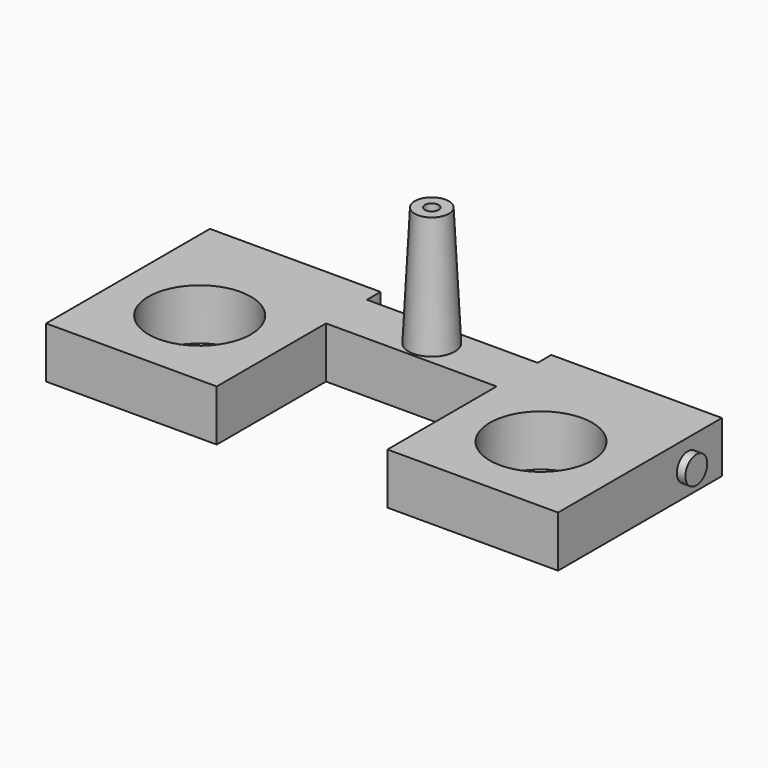
from build123d import *

# Parameters (mm, degrees)
CYLINDER156_R           = 0.4
CYLINDER156_DEPTH       = 8
CYLINDER156_PITCH_ANGLE = 90
CYLINDER140_R           = 1.5
CYLINDER140_DEPTH       = 8
CYLINDER138_R           = 0.4
CYLINDER138_DEPTH       = 8
CYLINDER138_PITCH_ANGLE = 90
CYLINDER139_R           = 0.4
CYLINDER139_DEPTH       = 10
CYLINDER139_PITCH_ANGLE = 90
CYLINDER136_R           = 0.2
CYLINDER136_DEPTH       = 9
CYLINDER141_R           = 1.5
CYLINDER141_DEPTH       = 8
BOX028_W                = 5
BOX028_H                = 6
BOX028_DEPTH            = 1.5
BOX027_W                = 5
BOX027_H                = 6
BOX027_DEPTH            = 1.5
BOX026_W                = 5
BOX026_H                = 1.5
BOX026_DEPTH            = 1.5


with BuildPart() as bowtieinjectorwire003:
    # Cylinder156 → Cylinder156 (new body)
    with BuildSketch(Plane.XY):
        Circle(CYLINDER156_R)
    extrude(amount=CYLINDER156_DEPTH)


with BuildPart() as bowtieinjectorwire003_1:
    # Cylinder156 pitch: moved
    add(bowtieinjectorwire003.part.rotate(Axis((0, 0, 0), (0, 1, 0)), CYLINDER156_PITCH_ANGLE))


with BuildPart() as bowtieinjectorwire003_2:
    # Cylinder156 placement: moved
    add(bowtieinjectorwire003_1.part.moved(Location((105.17, 148, 64.75))))


with BuildPart() as bowtiemount003:
    # Cylinder140 → Cylinder140 (new body)
    with BuildSketch(Plane(origin=(127, 146.25, 63), x_dir=(1, 0, 0), z_dir=(0, 0, 1))):
        Circle(CYLINDER140_R)
    extrude(amount=CYLINDER140_DEPTH)


with BuildPart() as bowtieinjectorwire1:
    # Cylinder138 → Cylinder138 (new body)
    with BuildSketch(Plane.XY):
        Circle(CYLINDER138_R)
    extrude(amount=CYLINDER138_DEPTH)


with BuildPart() as bowtieinjectorwire1_1:
    # Cylinder138 pitch: moved
    add(bowtieinjectorwire1.part.rotate(Axis((0, 0, 0), (0, 1, 0)), CYLINDER138_PITCH_ANGLE))


with BuildPart() as bowtieinjectorwire1_2:
    # Cylinder138 placement: moved
    add(bowtieinjectorwire1_1.part.moved(Location((121.75, 148.5, 69.75))))


with BuildPart() as bowtieinjectorwire002:
    # Cylinder139 → Cylinder139 (new body)
    with BuildSketch(Plane.XY):
        Circle(CYLINDER139_R)
    extrude(amount=CYLINDER139_DEPTH)


with BuildPart() as bowtieinjectorwire002_1:
    # Cylinder139 pitch: moved
    add(bowtieinjectorwire002.part.rotate(Axis((0, 0, 0), (0, 1, 0)), CYLINDER139_PITCH_ANGLE))


with BuildPart() as bowtieinjectorwire002_2:
    # Cylinder139 placement: moved
    add(bowtieinjectorwire002_1.part.moved(Location((111, 148.5, 69.75))))


with BuildPart() as bowtienozzle004:
    # Cylinder136 → Cylinder136 (new body)
    with BuildSketch(Plane(origin=(122, 148.5, 69.5), x_dir=(1, 0, 0), z_dir=(0, 0, 1))):
        Circle(CYLINDER136_R)
    extrude(amount=CYLINDER136_DEPTH)


with BuildPart() as bowtiecut:
    # Cylinder141 → Cylinder141 (new body)
    with BuildSketch(Plane(origin=(117, 146.25, 63), x_dir=(1, 0, 0), z_dir=(0, 0, 1))):
        Circle(CYLINDER141_R)
    extrude(amount=CYLINDER141_DEPTH)

    # Fusion055: union BowTieMount003, BowTieInjectorWire1, BowTieInjectorWire002, BowTieNozzle004
    add(bowtiemount003.part)
    add(bowtieinjectorwire1_2.part)
    add(bowtieinjectorwire002_2.part)
    add(bowtienozzle004.part)


with BuildPart() as cone001:
    # Cone001 → Cone001 (revolve)
    with BuildSketch(Plane(origin=(122, 148.5, 70), x_dir=(1, 0, 0), z_dir=(0, -1, 0))):
        Polygon((0, 0), (0.7, 0), (0.5, 4), (0, 4), align=None)
    revolve(axis=Axis((122, 148.5, 70), (0, 0, 1)))


with BuildPart() as cube011:
    # Box028 → Box028 (new body)
    with BuildSketch(Plane(origin=(114.5, 143.75, 69), x_dir=(1, 0, 0), z_dir=(0, 0, 1))):
        with Locations((2.5, 3)):
            Rectangle(BOX028_W, BOX028_H)
    extrude(amount=BOX028_DEPTH)


with BuildPart() as cube010:
    # Box027 → Box027 (new body)
    with BuildSketch(Plane(origin=(124.5, 143.75, 69), x_dir=(1, 0, 0), z_dir=(0, 0, 1))):
        with Locations((2.5, 3)):
            Rectangle(BOX027_W, BOX027_H)
    extrude(amount=BOX027_DEPTH)


with BuildPart() as bowtie:
    # Box026 → Box026 (new body)
    with BuildSketch(Plane(origin=(119.5, 147.75, 69), x_dir=(1, 0, 0), z_dir=(0, 0, 1))):
        with Locations((2.5, 0.75)):
            Rectangle(BOX026_W, BOX026_H)
    extrude(amount=BOX026_DEPTH)

    # Fusion056: union Cone001, Cube011, Cube010
    add(cone001.part)
    add(cube011.part)
    add(cube010.part)

    # Cut018: cut BowTieCut
    add(bowtiecut.part, mode=Mode.SUBTRACT)


with BuildPart() as bowtie_1:
    # Cut018 placement: moved
    add(bowtie.part.moved(Location((-16.58, -0.5, -5))))


solid = Compound([bowtieinjectorwire003_2.part, bowtie_1.part])
